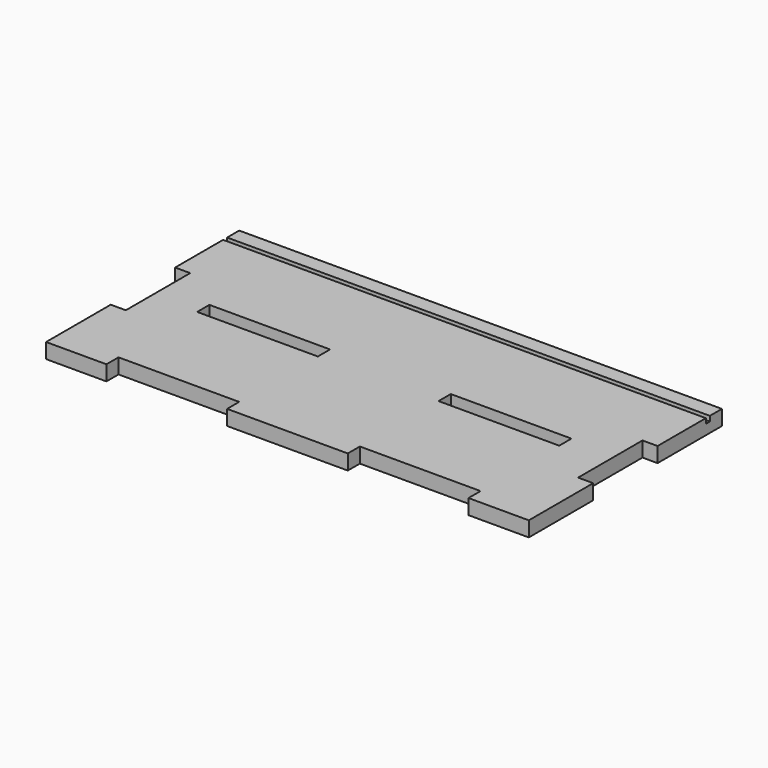
from build123d import *

# Parameters (mm, degrees)
F1_DEPTH = 19.05
F2_W     = 152.4
F2_H     = 19.304
F3_DEPTH = 19.051
F4_W     = 6.35
F4_H     = 6.35
F5_DEPTH = 609.601


with BuildPart() as f1:
    # F0 (on Top) → F1 (new body)
    with BuildSketch(Plane.XY):
        Polygon((-158.75611, 188.8015), (-234.95611, 188.8015), (-234.95611, 87.67615), (-215.90611, 87.67615), (-215.90611, -13.92385), (-234.95611, -13.92385), (-234.95611, -115.9985), (-158.75611, -115.9985), (-158.75611, -96.9485), (-6.35611, -96.9485), (-6.35611, -115.9985), (146.04389, -115.9985), (146.04389, -96.9485), (298.44389, -96.9485), (298.44389, -115.9985), (374.64389, -115.9985), (374.64389, -14.3985), (355.59389, -14.3985), (355.59389, 87.2015), (374.64389, 87.2015), (374.64389, 188.8015), (298.44389, 188.8015), align=None)
    extrude(amount=F1_DEPTH)

    # F2 (on face) → F3 (cut, through all)
    with BuildSketch(Plane.XY.offset(19.05)):
        with Locations((-82.55611, 36.87615)):
            Rectangle(F2_W, F2_H)
        with Locations((222.24389, 36.87615)):
            Rectangle(F2_W, F2_H)
    extrude(amount=-F3_DEPTH, mode=Mode.SUBTRACT)

    # F4 (on face) → F5 (cut, through all)
    with BuildSketch(Plane.YZ.offset(374.64389)):
        with Locations((166.5765, 15.875)):
            Rectangle(F4_W, F4_H)
    extrude(amount=-F5_DEPTH, mode=Mode.SUBTRACT)


solid = f1.part
